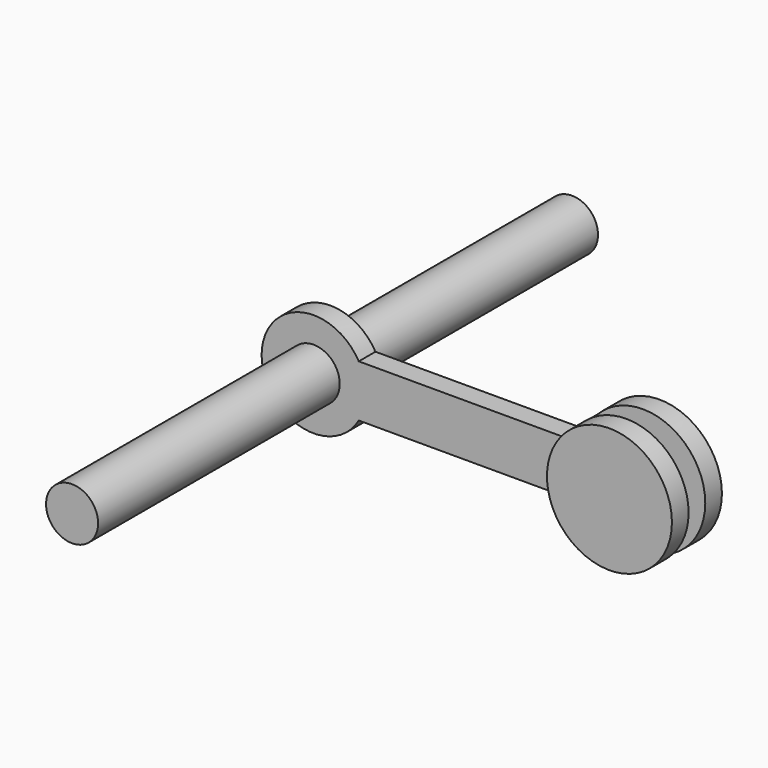
from build123d import *

# Parameters (mm, degrees)
F0_R     = 5
F1_DEPTH = 60
F2_R     = 5
F3_DEPTH = 2
F4_R     = 12
F5_DEPTH = 6
F6_R     = 5
F7_DEPTH = 2


with BuildPart() as f1:
    # F0 (on Front) → F1 (new body, symmetric)
    with BuildSketch(Plane.XZ):
        Circle(F0_R)
    extrude(amount=F1_DEPTH, both=True)


with BuildPart() as f3:
    # F2 (on Front) → F3 (new body, symmetric)
    with BuildSketch(Plane.XZ):
        with BuildLine():
            ThreePointArc((8.660254, -5), (9.659258, -2.58819), (10, 0))
            ThreePointArc((10, 0), (9.659258, 2.58819), (8.660254, 5))
            ThreePointArc((8.660254, 5), (-10, 0), (8.660254, -5))
        make_face()
        Circle(F2_R, mode=Mode.SUBTRACT)
        with BuildLine():
            ThreePointArc((8.660254, 5), (9.659258, 2.58819), (10, 0))
            ThreePointArc((10, 0), (9.659258, -2.58819), (8.660254, -5))
            Line((8.660254, -5), (49.091288, -5))
            ThreePointArc((49.091288, -5), (48, 0), (49.091288, 5))
            Line((49.091288, 5), (8.660254, 5))
        make_face()
        with BuildLine():
            ThreePointArc((72, 0), (62.558853, 11.724004), (49.091288, 5))
            ThreePointArc((49.091288, 5), (48, 0), (49.091288, -5))
            ThreePointArc((49.091288, -5), (62.558853, -11.724004), (72, 0))
        make_face()
    extrude(amount=F3_DEPTH, both=True)

    # F4 (on Front) → F5 (join, symmetric)
    with BuildSketch(Plane.XZ):
        with Locations((60, 0)):
            Circle(F4_R)
    extrude(amount=F5_DEPTH, both=True)

    # F6 (on Front) → F7 (cut, symmetric)
    with BuildSketch(Plane.XZ):
        with BuildLine():
            Line((51.339746, -5), (51.339746, -8.306624))
            ThreePointArc((51.339746, -8.306624), (72, 0), (51.339746, 8.306624))
            Line((51.339746, 8.306624), (51.339746, 5))
            ThreePointArc((51.339746, 5), (50, 0), (51.339746, -5))
        make_face()
        with Locations((60, 0)):
            Circle(F6_R, mode=Mode.SUBTRACT)
    extrude(amount=F7_DEPTH, both=True, mode=Mode.SUBTRACT)


solid = Compound([f1.part, f3.part])
